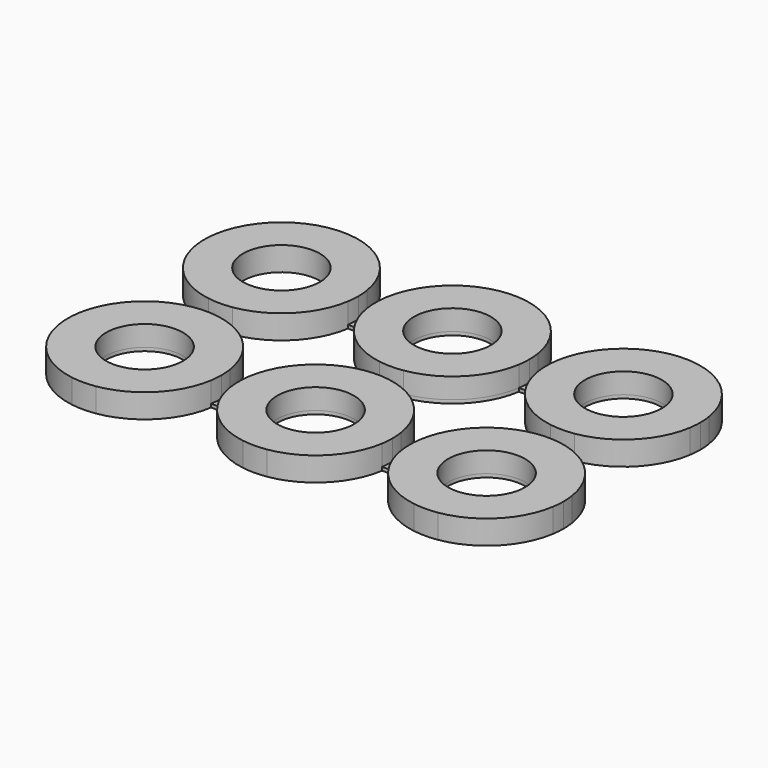
from build123d import *

# Parameters (mm, degrees)
F0_R     = 2.25
F1_DEPTH = 0.2
F2_DEPTH = 1.2


with BuildPart() as f1:
    # F0 (on Top) → F1 (new body)
    with BuildSketch(Plane.XY):
        with BuildLine():
            Line((0.7, -5.554778), (0.7, -4.445222))
            ThreePointArc((0.7, -4.445222), (0, -4.5), (-0.7, -4.445222))
            Line((-0.7, -4.445222), (-0.7, -5.554778))
            ThreePointArc((-0.7, -5.554778), (0, -5.5), (0.7, -5.554778))
        make_face()
        with BuildLine():
            ThreePointArc((4.445222, 0.7), (4.486285, 0.35107), (4.5, 0))
            ThreePointArc((4.5, 0), (4.486285, -0.35107), (4.445222, -0.7))
            Line((4.445222, -0.7), (5.554778, -0.7))
            ThreePointArc((5.554778, -0.7), (5.5, 0), (5.554778, 0.7))
            Line((5.554778, 0.7), (4.445222, 0.7))
        make_face()
        with BuildLine():
            Line((5.554778, -9.3), (4.445222, -9.3))
            ThreePointArc((4.445222, -9.3), (4.486285, -9.64893), (4.5, -10))
            ThreePointArc((4.5, -10), (4.486285, -10.35107), (4.445222, -10.7))
            Line((4.445222, -10.7), (5.554778, -10.7))
            ThreePointArc((5.554778, -10.7), (5.5, -10), (5.554778, -9.3))
        make_face()
        with BuildLine():
            Line((15.554778, 0.7), (14.445222, 0.7))
            ThreePointArc((14.445222, 0.7), (14.486285, 0.35107), (14.5, 0))
            ThreePointArc((14.5, 0), (14.486285, -0.35107), (14.445222, -0.7))
            Line((14.445222, -0.7), (15.554778, -0.7))
            ThreePointArc((15.554778, -0.7), (15.5, 0), (15.554778, 0.7))
        make_face()
        with BuildLine():
            Line((15.554778, -9.3), (14.445222, -9.3))
            ThreePointArc((14.445222, -9.3), (14.486285, -9.64893), (14.5, -10))
            ThreePointArc((14.5, -10), (14.486285, -10.35107), (14.445222, -10.7))
            Line((14.445222, -10.7), (15.554778, -10.7))
            ThreePointArc((15.554778, -10.7), (15.5, -10), (15.554778, -9.3))
        make_face()
        with BuildLine():
            ThreePointArc((20.7, -4.445222), (20, -4.5), (19.3, -4.445222))
            Line((19.3, -4.445222), (19.3, -5.554778))
            ThreePointArc((19.3, -5.554778), (20, -5.5), (20.7, -5.554778))
            Line((20.7, -5.554778), (20.7, -4.445222))
        make_face()
        with BuildLine():
            ThreePointArc((4.445222, -9.3), (3.181981, -6.818019), (0.7, -5.554778))
            ThreePointArc((0.7, -5.554778), (0, -5.5), (-0.7, -5.554778))
            ThreePointArc((-0.7, -5.554778), (-4.5, -10), (-0.7, -14.445222))
            ThreePointArc((-0.7, -14.445222), (0, -14.5), (0.7, -14.445222))
            ThreePointArc((0.7, -14.445222), (3.181981, -13.181981), (4.445222, -10.7))
            ThreePointArc((4.445222, -10.7), (4.486285, -10.35107), (4.5, -10))
            ThreePointArc((4.5, -10), (4.486285, -9.64893), (4.445222, -9.3))
        make_face()
        with Locations((0, -10)):
            Circle(F0_R, mode=Mode.SUBTRACT)
        with BuildLine():
            ThreePointArc((24.445222, 0.7), (20, 4.5), (15.554778, 0.7))
            ThreePointArc((15.554778, 0.7), (15.5, 0), (15.554778, -0.7))
            ThreePointArc((15.554778, -0.7), (16.818019, -3.181981), (19.3, -4.445222))
            ThreePointArc((19.3, -4.445222), (20, -4.5), (20.7, -4.445222))
            ThreePointArc((20.7, -4.445222), (23.181981, -3.181981), (24.445222, -0.7))
            ThreePointArc((24.445222, -0.7), (24.486285, -0.35107), (24.5, 0))
            ThreePointArc((24.5, 0), (24.486285, 0.35107), (24.445222, 0.7))
        make_face()
        with Locations((20, 0)):
            Circle(F0_R, mode=Mode.SUBTRACT)
        with BuildLine():
            ThreePointArc((20.7, -5.554778), (20, -5.5), (19.3, -5.554778))
            ThreePointArc((19.3, -5.554778), (16.818019, -6.818019), (15.554778, -9.3))
            ThreePointArc((15.554778, -9.3), (15.5, -10), (15.554778, -10.7))
            ThreePointArc((15.554778, -10.7), (16.818019, -13.181981), (19.3, -14.445222))
            ThreePointArc((19.3, -14.445222), (20, -14.5), (20.7, -14.445222))
            ThreePointArc((20.7, -14.445222), (23.181981, -13.181981), (24.445222, -10.7))
            ThreePointArc((24.445222, -10.7), (24.486285, -10.35107), (24.5, -10))
            ThreePointArc((24.5, -10), (24.486285, -9.64893), (24.445222, -9.3))
            ThreePointArc((24.445222, -9.3), (23.181981, -6.818019), (20.7, -5.554778))
        make_face()
        with Locations((20, -10)):
            Circle(F0_R, mode=Mode.SUBTRACT)
        with BuildLine():
            ThreePointArc((14.445222, 0.7), (10, 4.5), (5.554778, 0.7))
            ThreePointArc((5.554778, 0.7), (5.5, 0), (5.554778, -0.7))
            ThreePointArc((5.554778, -0.7), (6.818019, -3.181981), (9.3, -4.445222))
            ThreePointArc((9.3, -4.445222), (10, -4.5), (10.7, -4.445222))
            ThreePointArc((10.7, -4.445222), (13.181981, -3.181981), (14.445222, -0.7))
            ThreePointArc((14.445222, -0.7), (14.486285, -0.35107), (14.5, 0))
            ThreePointArc((14.5, 0), (14.486285, 0.35107), (14.445222, 0.7))
        make_face()
        with Locations((10, 0)):
            Circle(F0_R, mode=Mode.SUBTRACT)
        with BuildLine():
            ThreePointArc((10.7, -5.554778), (10, -5.5), (9.3, -5.554778))
            ThreePointArc((9.3, -5.554778), (6.818019, -6.818019), (5.554778, -9.3))
            ThreePointArc((5.554778, -9.3), (5.5, -10), (5.554778, -10.7))
            ThreePointArc((5.554778, -10.7), (6.818019, -13.181981), (9.3, -14.445222))
            ThreePointArc((9.3, -14.445222), (10, -14.5), (10.7, -14.445222))
            ThreePointArc((10.7, -14.445222), (13.181981, -13.181981), (14.445222, -10.7))
            ThreePointArc((14.445222, -10.7), (14.486285, -10.35107), (14.5, -10))
            ThreePointArc((14.5, -10), (14.486285, -9.64893), (14.445222, -9.3))
            ThreePointArc((14.445222, -9.3), (13.181981, -6.818019), (10.7, -5.554778))
        make_face()
        with Locations((10, -10)):
            Circle(F0_R, mode=Mode.SUBTRACT)
        with BuildLine():
            ThreePointArc((4.445222, -0.7), (4.486285, -0.35107), (4.5, 0))
            ThreePointArc((4.5, 0), (4.486285, 0.35107), (4.445222, 0.7))
            ThreePointArc((4.445222, 0.7), (0, 4.5), (-4.445222, 0.7))
            ThreePointArc((-4.445222, 0.7), (-4.5, 0), (-4.445222, -0.7))
            ThreePointArc((-4.445222, -0.7), (-3.181981, -3.181981), (-0.7, -4.445222))
            ThreePointArc((-0.7, -4.445222), (0, -4.5), (0.7, -4.445222))
            ThreePointArc((0.7, -4.445222), (3.181981, -3.181981), (4.445222, -0.7))
        make_face()
        Circle(F0_R, mode=Mode.SUBTRACT)
        with BuildLine():
            ThreePointArc((10.7, -4.445222), (10, -4.5), (9.3, -4.445222))
            Line((9.3, -4.445222), (9.3, -5.554778))
            ThreePointArc((9.3, -5.554778), (10, -5.5), (10.7, -5.554778))
            Line((10.7, -5.554778), (10.7, -4.445222))
        make_face()
    extrude(amount=-F1_DEPTH)

    # F0 (on Top) → F2 (join)
    with BuildSketch(Plane.XY):
        with BuildLine():
            ThreePointArc((4.445222, -0.7), (4.486285, -0.35107), (4.5, 0))
            ThreePointArc((4.5, 0), (4.486285, 0.35107), (4.445222, 0.7))
            ThreePointArc((4.445222, 0.7), (0, 4.5), (-4.445222, 0.7))
            ThreePointArc((-4.445222, 0.7), (-4.5, 0), (-4.445222, -0.7))
            ThreePointArc((-4.445222, -0.7), (-3.181981, -3.181981), (-0.7, -4.445222))
            ThreePointArc((-0.7, -4.445222), (0, -4.5), (0.7, -4.445222))
            ThreePointArc((0.7, -4.445222), (3.181981, -3.181981), (4.445222, -0.7))
        make_face()
        Circle(F0_R, mode=Mode.SUBTRACT)
        with BuildLine():
            ThreePointArc((14.445222, 0.7), (10, 4.5), (5.554778, 0.7))
            ThreePointArc((5.554778, 0.7), (5.5, 0), (5.554778, -0.7))
            ThreePointArc((5.554778, -0.7), (6.818019, -3.181981), (9.3, -4.445222))
            ThreePointArc((9.3, -4.445222), (10, -4.5), (10.7, -4.445222))
            ThreePointArc((10.7, -4.445222), (13.181981, -3.181981), (14.445222, -0.7))
            ThreePointArc((14.445222, -0.7), (14.486285, -0.35107), (14.5, 0))
            ThreePointArc((14.5, 0), (14.486285, 0.35107), (14.445222, 0.7))
        make_face()
        with Locations((10, 0)):
            Circle(F0_R, mode=Mode.SUBTRACT)
        with BuildLine():
            ThreePointArc((24.445222, 0.7), (20, 4.5), (15.554778, 0.7))
            ThreePointArc((15.554778, 0.7), (15.5, 0), (15.554778, -0.7))
            ThreePointArc((15.554778, -0.7), (16.818019, -3.181981), (19.3, -4.445222))
            ThreePointArc((19.3, -4.445222), (20, -4.5), (20.7, -4.445222))
            ThreePointArc((20.7, -4.445222), (23.181981, -3.181981), (24.445222, -0.7))
            ThreePointArc((24.445222, -0.7), (24.486285, -0.35107), (24.5, 0))
            ThreePointArc((24.5, 0), (24.486285, 0.35107), (24.445222, 0.7))
        make_face()
        with Locations((20, 0)):
            Circle(F0_R, mode=Mode.SUBTRACT)
        with BuildLine():
            ThreePointArc((20.7, -5.554778), (20, -5.5), (19.3, -5.554778))
            ThreePointArc((19.3, -5.554778), (16.818019, -6.818019), (15.554778, -9.3))
            ThreePointArc((15.554778, -9.3), (15.5, -10), (15.554778, -10.7))
            ThreePointArc((15.554778, -10.7), (16.818019, -13.181981), (19.3, -14.445222))
            ThreePointArc((19.3, -14.445222), (20, -14.5), (20.7, -14.445222))
            ThreePointArc((20.7, -14.445222), (23.181981, -13.181981), (24.445222, -10.7))
            ThreePointArc((24.445222, -10.7), (24.486285, -10.35107), (24.5, -10))
            ThreePointArc((24.5, -10), (24.486285, -9.64893), (24.445222, -9.3))
            ThreePointArc((24.445222, -9.3), (23.181981, -6.818019), (20.7, -5.554778))
        make_face()
        with Locations((20, -10)):
            Circle(F0_R, mode=Mode.SUBTRACT)
        with BuildLine():
            ThreePointArc((10.7, -5.554778), (10, -5.5), (9.3, -5.554778))
            ThreePointArc((9.3, -5.554778), (6.818019, -6.818019), (5.554778, -9.3))
            ThreePointArc((5.554778, -9.3), (5.5, -10), (5.554778, -10.7))
            ThreePointArc((5.554778, -10.7), (6.818019, -13.181981), (9.3, -14.445222))
            ThreePointArc((9.3, -14.445222), (10, -14.5), (10.7, -14.445222))
            ThreePointArc((10.7, -14.445222), (13.181981, -13.181981), (14.445222, -10.7))
            ThreePointArc((14.445222, -10.7), (14.486285, -10.35107), (14.5, -10))
            ThreePointArc((14.5, -10), (14.486285, -9.64893), (14.445222, -9.3))
            ThreePointArc((14.445222, -9.3), (13.181981, -6.818019), (10.7, -5.554778))
        make_face()
        with Locations((10, -10)):
            Circle(F0_R, mode=Mode.SUBTRACT)
        with BuildLine():
            ThreePointArc((4.445222, -9.3), (3.181981, -6.818019), (0.7, -5.554778))
            ThreePointArc((0.7, -5.554778), (0, -5.5), (-0.7, -5.554778))
            ThreePointArc((-0.7, -5.554778), (-4.5, -10), (-0.7, -14.445222))
            ThreePointArc((-0.7, -14.445222), (0, -14.5), (0.7, -14.445222))
            ThreePointArc((0.7, -14.445222), (3.181981, -13.181981), (4.445222, -10.7))
            ThreePointArc((4.445222, -10.7), (4.486285, -10.35107), (4.5, -10))
            ThreePointArc((4.5, -10), (4.486285, -9.64893), (4.445222, -9.3))
        make_face()
        with Locations((0, -10)):
            Circle(F0_R, mode=Mode.SUBTRACT)
    extrude(amount=F2_DEPTH)


solid = f1.part
